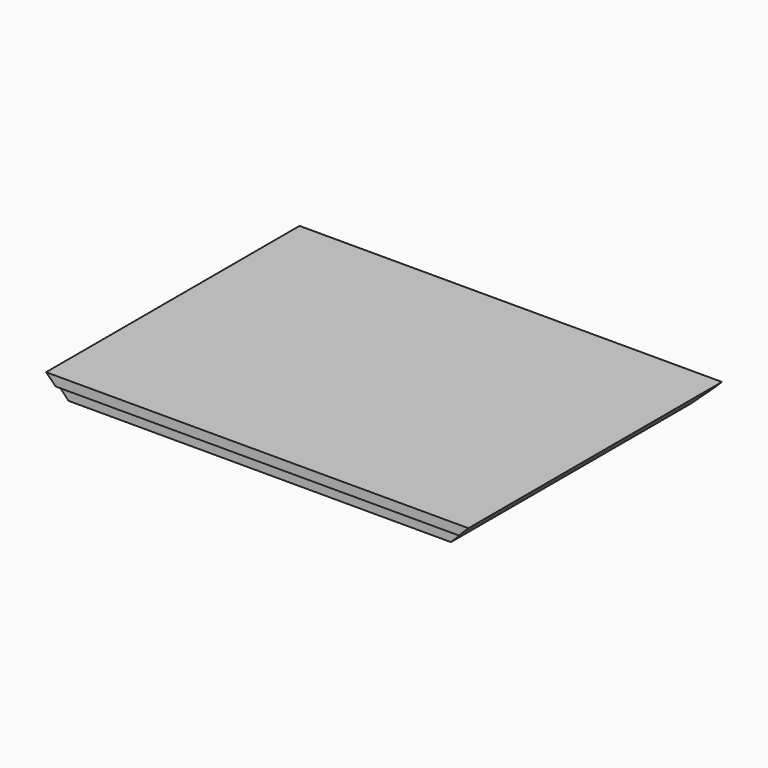
from build123d import *

# Parameters (mm, degrees)
F1_DEPTH = 300
F2_SIZE  = 13
F3_W     = 400
F3_H     = 10
F4_DEPTH = 3


with BuildPart() as f1:
    # F0 (on Front) → F1 (new body)
    with BuildSketch(Plane.XZ):
        Polygon((-19, 19), (0, 0), (362, 0), (381, 19), align=None)
    extrude(amount=F1_DEPTH)

    # F2
    f2_edges = [f1.edges().sort_by_distance(p)[0] for p in [
        (181, 0, 0),
    ]]
    chamfer(f2_edges, length=F2_SIZE)

    # F3 (on face) → F4 (cut)
    with BuildSketch(Plane.XZ.offset(300)):
        with Locations((180, 5)):
            Rectangle(F3_W, F3_H)
    extrude(amount=-F4_DEPTH, mode=Mode.SUBTRACT)


solid = f1.part
